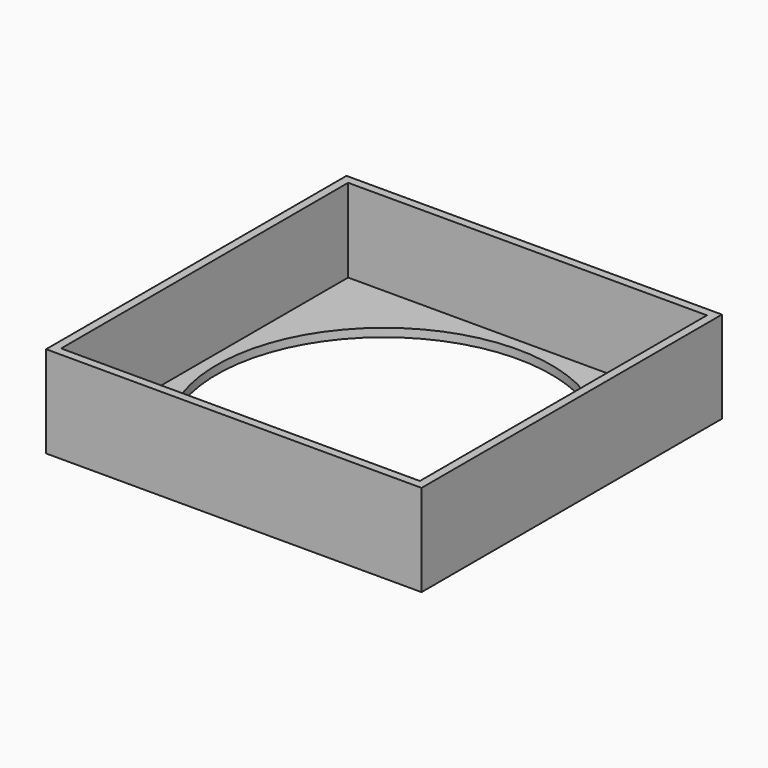
from build123d import *

# Parameters (mm, degrees)
F0_W      = 114.3
F0_H      = 114.3
F1_DEPTH  = 2.54
F2_W      = 114.3
F2_H      = 25.4
F3_DEPTH  = 2.54
F5_W      = 109.22
F5_H      = 25.4
F6_DEPTH  = 2.54
F8_W      = 114.3
F8_H      = 114.3
F8_W_2    = 109.22
F8_H_2    = 109.22
F9_DEPTH  = 2.54
F10_W     = 114.3
F10_H     = 114.3
F11_DEPTH = 2.54
F12_W     = 76.2
F12_H     = 104.14
F13_DEPTH = 1.27
F14_R     = 6.35
F15_DEPTH = 1.27
F17_R     = 50.8982940966
F18_DEPTH = 2.54


with BuildPart() as f1:
    # F0 (on Top) → F1 (new body)
    with BuildSketch(Plane.XY):
        Rectangle(F0_W, F0_H)
    extrude(amount=F1_DEPTH)

    # F4: F3 across plane


with BuildPart() as f3:
    # F2 (on face) → F3 (new body)
    with BuildSketch(Plane.YZ.offset(57.15)):
        with Locations((0, 15.24)):
            Rectangle(F2_W, F2_H)
    extrude(amount=-F3_DEPTH)


with BuildPart() as f1_1:
    add(f1.part)
    add(f3.part.mirror(Plane.YZ))



with BuildPart() as f6:
    # F5 (on face) → F6 (new body)
    with BuildSketch(Plane(origin=(0, 57.15, 0), x_dir=(-1, 0, 0), z_dir=(0, 1, 0))):
        with Locations((0, 15.24)):
            Rectangle(F5_W, F5_H)
    extrude(amount=-F6_DEPTH)


with BuildPart() as f1_2:
    add(f1_1.part)

    add(f3.part)  # F7 merges F3

    add(f6.part)  # F7 merges F6
    # F7: F6 across plane
    add(f6.part.mirror(Plane.XZ))

    # F17 (on face) → F18 (cut, through all)
    with BuildSketch(Plane.XY.offset(2.54)):
        Circle(F17_R)
    extrude(amount=-F18_DEPTH, mode=Mode.SUBTRACT)


with BuildPart() as f9:
    # F8 (on face) → F9 (new body)
    with BuildSketch(Plane.XY.offset(27.94)):
        Rectangle(F8_W, F8_H)
        Rectangle(F8_W_2, F8_H_2, mode=Mode.SUBTRACT)
        Rectangle(F8_W_2, F8_H_2)
    extrude(amount=F9_DEPTH)

    # F10 (on face) → F11 (join)
    with BuildSketch(Plane.XY.offset(30.48)):
        Rectangle(F10_W, F10_H)
    extrude(amount=F11_DEPTH)

    # F12 (on face) → F13 (cut)
    with BuildSketch(Plane.XY.offset(33.02)):
        with Locations((-13.97, 0)):
            Rectangle(F12_W, F12_H)
    extrude(amount=-F13_DEPTH, mode=Mode.SUBTRACT)

    # F14 (on face) → F15 (cut)
    with BuildSketch(Plane.XY.offset(33.02)):
        with BuildLine():
            ThreePointArc((55.245, 45.72), (48.895, 52.07), (42.545, 45.72))
            ThreePointArc((42.545, 45.72), (48.895, 39.37), (55.245, 45.72))
        make_face()
        with Locations((32.385, 45.72)):
            Circle(F14_R)
        with BuildLine():
            ThreePointArc((40.64, 6.35), (36.1498719395, -4.4901280605), (46.99, 0))
            ThreePointArc((46.99, 0), (45.1301280605, 4.4901280605), (40.64, 6.35))
        make_face()
    extrude(amount=-F15_DEPTH, mode=Mode.SUBTRACT)


solid = f1_2.part
